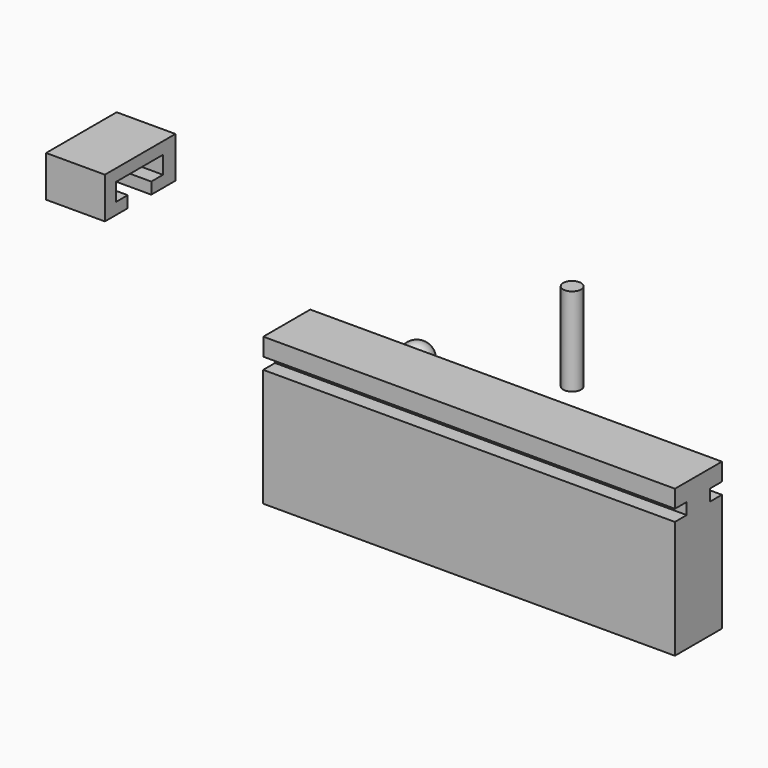
from build123d import *

# Parameters (mm, degrees)
F0_W      = 25.4
F0_H      = 63.5
F1_DEPTH  = 177.8
F2_W      = 38.1
F2_H      = 17.78
F3_DEPTH  = 25.4
F5_W      = 25.4
F5_H      = 7.62
F6_DEPTH  = 41.27546
F7_W      = 12.7
F7_H      = 4.9650286335
F7_H_2    = 2.6549713665
F8_DEPTH  = 38.1
F16_DEPTH = 231.78173
F20_DEPTH = 27.432
F21_R     = 3.8481
F22_DEPTH = 38.1


with BuildPart() as f1:
    # F0 (on Right) → F1 (new body)
    with BuildSketch(Plane.YZ):
        with Locations((-33.9150838554, 10.359425045)):
            Rectangle(F0_W, F0_H)
    extrude(amount=F1_DEPTH)


with BuildPart() as f3:
    # F2 (on Right) → F3 (new body)
    with BuildSketch(Plane.YZ):
        with Locations((-33.6560383439, 42.7652748102)):
            Rectangle(F2_W, F2_H)
    extrude(amount=F3_DEPTH)


with BuildPart() as f3_1:
    # F4: moved
    add(f3.part.moved(Location((0, -51.70509, 1.0536))))

    # F5 (on face) → F6 (cut)
    with BuildSketch(Plane(origin=(0, 0, 0), x_dir=(0, -1, 0), z_dir=(-1, 0, 0))):
        with Locations((85.7314392924, 43.7250424656)):
            Rectangle(F5_W, F5_H)
    extrude(amount=-F6_DEPTH, mode=Mode.SUBTRACT)


with BuildPart() as f8:
    # F7 (on face) → F8 (new body)
    with BuildSketch(Plane(origin=(0, 0, 0), x_dir=(0, -1, 0), z_dir=(-1, 0, 0))):
        with Locations((79.3814392924, 42.3975567823)):
            Rectangle(F7_W, F7_H)
        with Locations((79.3814392924, 38.5875567823)):
            Rectangle(F7_W, F7_H_2)
    extrude(amount=F8_DEPTH)


with BuildPart() as f8_1:
    # F9: moved
    add(f8.part.moved(Location((0, -6.35, -3.53878))))


with BuildPart() as f8_2:
    # F10: moved
    add(f8_1.part.moved(Location((36.05112, 0, 0))))


with BuildPart() as f3_2:
    add(f3_1.part)

    # F11: cut F8
    add(f8_2.part, mode=Mode.SUBTRACT)


with BuildPart() as f3_3:
    # F12: moved
    add(f3_2.part.moved(Location((0, 51.86021, -5.4227))))


with BuildPart() as f13_1:
    # F13: copy of F3
    add(f3_3.part.moved(Location((177.8, 0, 0))))


with BuildPart() as f3_4:
    # F14: moved
    add(f3_3.part.moved(Location((-89.02109, 0, 38.1461))))


with BuildPart() as f13_1_1:
    # F15: moved
    add(f13_1.part.moved(Location((9.12819, 0, 0))))


with BuildPart() as f16:
    # F16 (new): a face of the model
    f16_faces = [f13_1_1.part.faces().sort_by_distance(p)[0] for p in [
        (186.92819, -14.871363156, 38.3961748102),
    ]]
    extrude(f16_faces, amount=F16_DEPTH)


with BuildPart() as f1_1:
    add(f1.part)

    # F17: cut F13_1
    add(f13_1_1.part, mode=Mode.SUBTRACT)

    # F18: cut F16
    add(f16.part, mode=Mode.SUBTRACT)

    # F19 (on Front) → F20 (cut)
    with BuildSketch(Plane.XZ):
        with BuildLine():
            Line((62.1106608614, -4.1292067602), (62.1106608614, 34.8261239232))
            ThreePointArc((62.1106608614, 34.8261239232), (58.2625608614, 38.6742239232), (54.4144608614, 34.8261239232))
            Line((54.4144608614, 34.8261239232), (54.4144608614, -4.1292067602))
            ThreePointArc((54.4144608614, -4.1292067602), (58.2625608614, -7.9773067602), (62.1106608614, -4.1292067602))
        make_face()
    extrude(amount=F20_DEPTH, mode=Mode.SUBTRACT)


with BuildPart() as f22:
    # F21 (on Top) → F22 (new body)
    with BuildSketch(Plane.XY):
        with Locations((53.4961856902, 53.2897152007)):
            Circle(F21_R)
    extrude(amount=F22_DEPTH)


with BuildPart() as f24:
    # F23 (on Right) → F24 (revolve)
    with BuildSketch(Plane.YZ):
        with BuildLine():
            Line((42.8054092475, 0), (29.7405140452, 0))
            ThreePointArc((29.7405140452, 0), (36.2729616463, -6.5324476012), (42.8054092475, 0))
        make_face()
    revolve(axis=Axis((0, 36.2729616463, 0), (0, -1, 0)))


solid = Compound([f3_4.part, f1_1.part, f22.part, f24.part])
